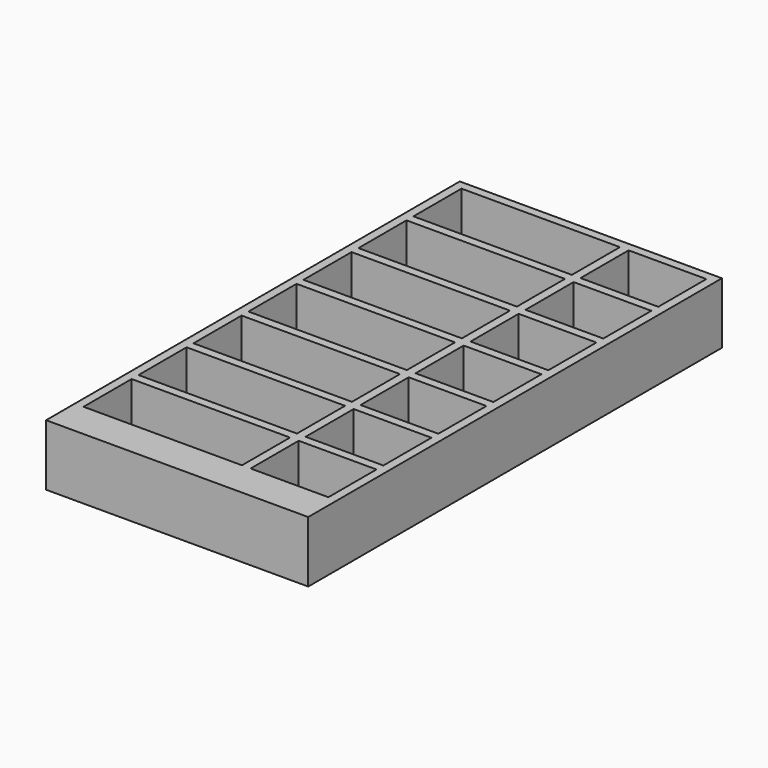
from build123d import *

# Parameters (mm, degrees)
F0_W     = 36.4
F0_H     = 71.8
F1_DEPTH = 8.5
F2_W     = 34
F2_H     = 65.6
F3_DEPTH = 6
F5_DEPTH = 6


with BuildPart() as f1:
    # F0 (on Top) → F1 (new body)
    with BuildSketch(Plane.XY):
        with Locations((18.2, 35.9)):
            Rectangle(F0_W, F0_H)
    extrude(amount=F1_DEPTH)

    # F2 (on face) → F3 (cut)
    with BuildSketch(Plane.XY.offset(8.5)):
        with Locations((18.2, 37.8)):
            Rectangle(F2_W, F2_H)
    extrude(amount=-F3_DEPTH, mode=Mode.SUBTRACT)

    # F4 (on face) → F5 (join)
    with BuildSketch(Plane.XY.offset(2.5)):
        Polygon((24.4, 70.6), (23.2, 70.6), (23.2, 62.257143), (13.2, 62.257143), (12, 62.257143), (1.2, 62.257143), (1.2, 61.057143), (12, 61.057143), (13.2, 61.057143), (23.2, 61.057143), (23.2, 52.714286), (13.2, 52.714286), (12, 52.714286), (1.2, 52.714286), (1.2, 51.514286), (12, 51.514286), (13.2, 51.514286), (23.2, 51.514286), (23.2, 43.171429), (13.2, 43.171429), (12, 43.171429), (1.2, 43.171429), (1.2, 41.971429), (12, 41.971429), (13.2, 41.971429), (23.2, 41.971429), (23.2, 33.628571), (13.2, 33.628571), (12, 33.628571), (1.2, 33.628571), (1.2, 32.428571), (12, 32.428571), (13.2, 32.428571), (23.2, 32.428571), (23.2, 24.085714), (13.2, 24.085714), (12, 24.085714), (1.2, 24.085714), (1.2, 22.885714), (12, 22.885714), (13.2, 22.885714), (23.2, 22.885714), (23.2, 14.542857), (13.2, 14.542857), (12, 14.542857), (1.2, 14.542857), (1.2, 13.342857), (12, 13.342857), (13.2, 13.342857), (23.2, 13.342857), (23.2, 5), (24.4, 5), (24.4, 13.342857), (35.2, 13.342857), (35.2, 14.542857), (24.4, 14.542857), (24.4, 22.885714), (35.2, 22.885714), (35.2, 24.085714), (24.4, 24.085714), (24.4, 32.428571), (35.2, 32.428571), (35.2, 33.628571), (24.4, 33.628571), (24.4, 41.971429), (35.2, 41.971429), (35.2, 43.171429), (24.4, 43.171429), (24.4, 51.514286), (35.2, 51.514286), (35.2, 52.714286), (24.4, 52.714286), (24.4, 61.057143), (35.2, 61.057143), (35.2, 62.257143), (24.4, 62.257143), align=None)
    extrude(amount=F5_DEPTH)


with BuildPart() as f6_1:
    # F6: copy of F1
    add(f1.part)


solid = f1.part
